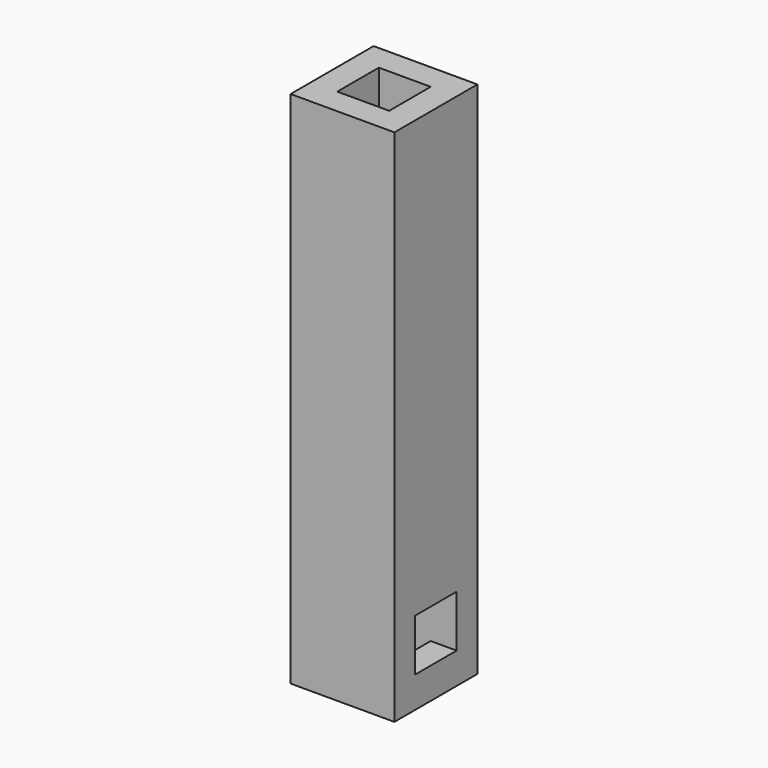
from build123d import *

# Parameters (mm, degrees)
F0_W       = 10
F0_H       = 10
F0_W_2     = 5
F0_H_2     = 5
F1_DEPTH   = 50
F2_W       = 5
F2_H       = 5
F1_FACE1_W = 10
F1_FACE1_H = 50
F3_DEPTH   = 3
F4_W       = 5
F4_H       = 5
F5_DEPTH   = 4


with BuildPart() as f1:
    # F0 (on Top) → F1 (new body)
    with BuildSketch(Plane.XY):
        Rectangle(F0_W, F0_H)
        Rectangle(F0_W_2, F0_H_2, mode=Mode.SUBTRACT)
    extrude(amount=F1_DEPTH)

    # F2 (on face) + F1_face1 (on face) → F3 (cut)
    with BuildSketch(Plane.YZ.offset(5)):
        with Locations((0, 5.5)):
            Rectangle(F2_W, F2_H)
    with BuildSketch(Plane(origin=(-5, 0, 25), x_dir=(0, -1, 0), z_dir=(-1, 0, 0))):
        Rectangle(F1_FACE1_W, F1_FACE1_H)
    extrude(amount=-F3_DEPTH, dir=(1, 0, 0), mode=Mode.SUBTRACT)

    # F4 (on face) → F5 (cut)
    with BuildSketch(Plane(origin=(-5, 0, 0), x_dir=(0, -1, 0), z_dir=(-1, 0, 0))):
        with Locations((0, 42.5)):
            Rectangle(F4_W, F4_H)
    extrude(amount=-F5_DEPTH, mode=Mode.SUBTRACT)


solid = f1.part
